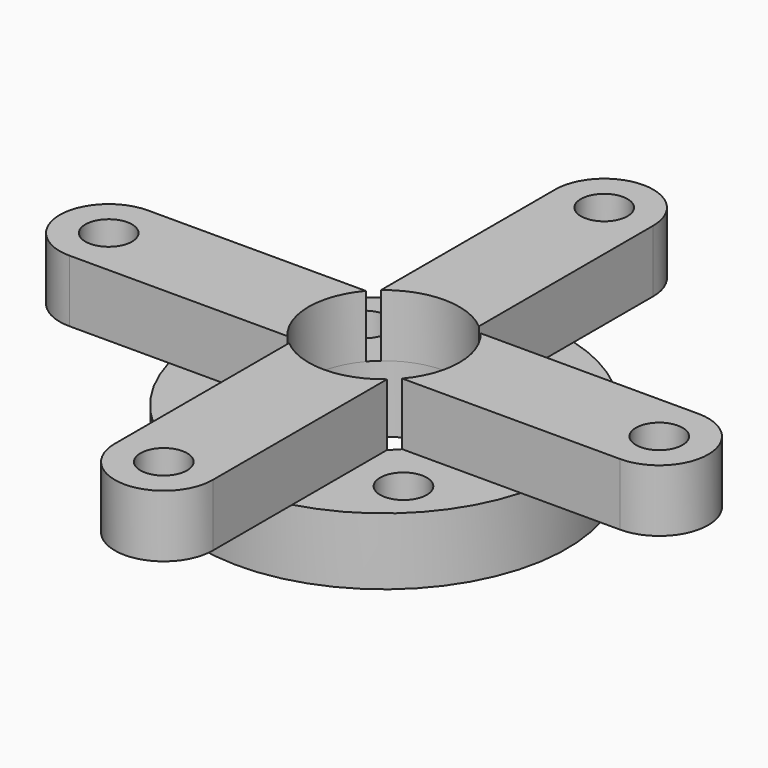
from build123d import *

# Parameters (mm, degrees)
F0_R     = 14.9225
F0_R_2   = 6.1595
F1_DEPTH = 5.461
F2_R     = 1.905
F3_DEPTH = 25.4
F5_ANGLE = 45
F6_R     = 1.905
F7_DEPTH = 5.08


with BuildPart() as f1:
    # F0 (on Top) → F1 (new body)
    with BuildSketch(Plane.XY):
        Circle(F0_R)
        Circle(F0_R_2, mode=Mode.SUBTRACT)
    extrude(amount=F1_DEPTH)

    # F2 (on face) → F3 (cut)
    with BuildSketch(Plane.XY.offset(5.461)):
        with Locations((-11.2395, 0)):
            Circle(F2_R)
        with Locations((0, 11.2395)):
            Circle(F2_R)
        with Locations((11.2395, 0)):
            Circle(F2_R)
        with Locations((0, -11.2395)):
            Circle(F2_R)
    extrude(amount=-F3_DEPTH, mode=Mode.SUBTRACT)


with BuildPart() as f1_1:
    # F5: moved
    add(f1.part.rotate(Axis((0, 0, 9.9508911371), (0, 0, 1)), F5_ANGLE))

    # F6 (on face) → F7 (join)
    with BuildSketch(Plane.XY.offset(5.461)):
        with BuildLine():
            ThreePointArc((-14.3762653704, -4.0005), (-14.9225, 0), (-14.3762653704, 4.0005))
            Line((-14.3762653704, 4.0005), (-22.479, 4.0005))
            ThreePointArc((-22.479, 4.0005), (-26.4795, 0), (-22.479, -4.0005))
            Line((-22.479, -4.0005), (-14.3762653704, -4.0005))
        make_face()
        with Locations((-22.479, 0)):
            Circle(F6_R, mode=Mode.SUBTRACT)
        with BuildLine():
            Line((-4.6835285843, 4.0005), (-14.3762653704, 4.0005))
            ThreePointArc((-14.3762653704, 4.0005), (-14.9225, 0), (-14.3762653704, -4.0005))
            Line((-14.3762653704, -4.0005), (-4.6835285843, -4.0005))
            ThreePointArc((-4.6835285843, -4.0005), (-6.1595, 0), (-4.6835285843, 4.0005))
        make_face()
        with BuildLine():
            ThreePointArc((14.9225, 0), (14.7853107211, 2.0188098301), (14.3762653704, 4.0005))
            Line((14.3762653704, 4.0005), (4.6835285843, 4.0005))
            ThreePointArc((4.6835285843, 4.0005), (5.7787383816, 2.1320466617), (6.1595, 0))
            ThreePointArc((6.1595, 0), (5.7787383816, -2.1320466617), (4.6835285843, -4.0005))
            Line((4.6835285843, -4.0005), (14.3762653704, -4.0005))
            ThreePointArc((14.3762653704, -4.0005), (14.7853107211, -2.0188098301), (14.9225, 0))
        make_face()
        with BuildLine():
            Line((22.479, 4.0005), (14.3762653704, 4.0005))
            ThreePointArc((14.3762653704, 4.0005), (14.7853107211, 2.0188098301), (14.9225, 0))
            ThreePointArc((14.9225, 0), (14.7853107211, -2.0188098301), (14.3762653704, -4.0005))
            Line((14.3762653704, -4.0005), (22.479, -4.0005))
            ThreePointArc((22.479, -4.0005), (26.4795, 0), (22.479, 4.0005))
        make_face()
        with Locations((22.479, 0)):
            Circle(F6_R, mode=Mode.SUBTRACT)
        with BuildLine():
            Line((4.0005, 14.3762653704), (4.0005, 22.479))
            ThreePointArc((4.0005, 22.479), (0, 26.4795), (-4.0005, 22.479))
            Line((-4.0005, 22.479), (-4.0005, 14.3762653704))
            ThreePointArc((-4.0005, 14.3762653704), (0, 14.9225), (4.0005, 14.3762653704))
        make_face()
        with Locations((0, 22.479)):
            Circle(F6_R, mode=Mode.SUBTRACT)
        with BuildLine():
            Line((4.0005, 4.6835285843), (4.0005, 14.3762653704))
            ThreePointArc((4.0005, 14.3762653704), (0, 14.9225), (-4.0005, 14.3762653704))
            Line((-4.0005, 14.3762653704), (-4.0005, 4.6835285843))
            ThreePointArc((-4.0005, 4.6835285843), (0, 6.1595), (4.0005, 4.6835285843))
        make_face()
        with BuildLine():
            ThreePointArc((4.0005, -14.3762653704), (0, -14.9225), (-4.0005, -14.3762653704))
            Line((-4.0005, -14.3762653704), (-4.0005, -22.479))
            ThreePointArc((-4.0005, -22.479), (0, -26.4795), (4.0005, -22.479))
            Line((4.0005, -22.479), (4.0005, -14.3762653704))
        make_face()
        with Locations((0, -22.479)):
            Circle(F6_R, mode=Mode.SUBTRACT)
        with BuildLine():
            Line((-4.0005, -4.6835285843), (-4.0005, -14.3762653704))
            ThreePointArc((-4.0005, -14.3762653704), (0, -14.9225), (4.0005, -14.3762653704))
            Line((4.0005, -14.3762653704), (4.0005, -4.6835285843))
            ThreePointArc((4.0005, -4.6835285843), (0, -6.1595), (-4.0005, -4.6835285843))
        make_face()
    extrude(amount=F7_DEPTH)


solid = f1_1.part
